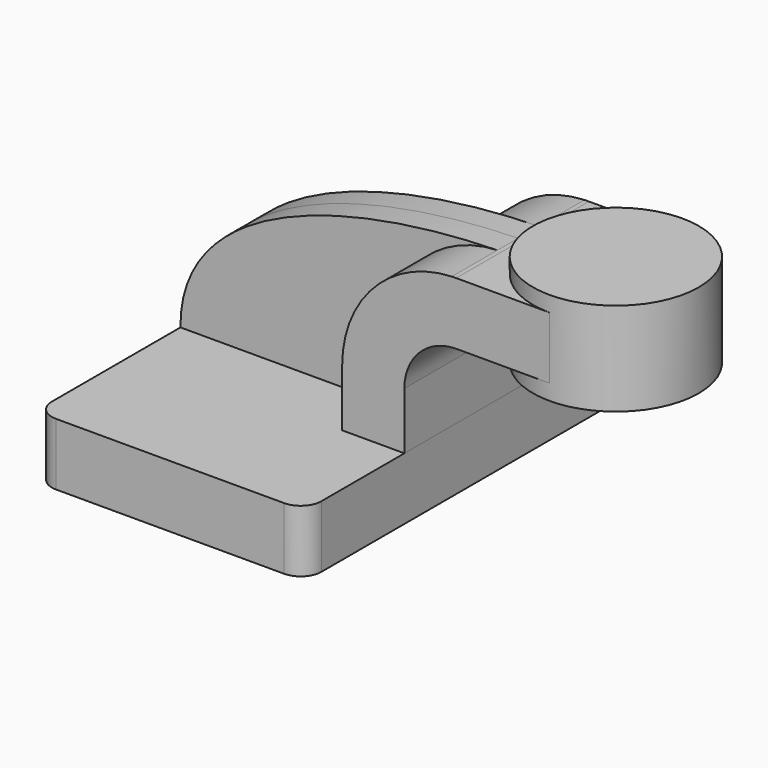
from build123d import *

# Parameters (mm, degrees)
F1_DEPTH = 63.5
F0_W     = 25.4
F0_H     = 19.05
F2_DEPTH = 25.4
F3_DEPTH = 7.9375
F5_R     = 6.35


with BuildPart() as f1:
    # F0 (on Front) → F1 (new body, symmetric)
    with BuildSketch(Plane.XZ):
        Polygon((-41.275, 9.525), (-41.275, -9.525), (41.275, -9.525), (41.275, 9.525), (22.225, 9.525), align=None)
    extrude(amount=F1_DEPTH, both=True)

    # F5
    f5_edges = [f1.edges().sort_by_distance(p)[0] for p in [
        (-41.275, -63.5, 0),
        (41.275, -63.5, 0),
        (-41.275, 63.5, 0),
        (41.275, 63.5, 0),
    ]]
    fillet(f5_edges, radius=F5_R)


with BuildPart() as f2:
    # F0 (on Front) → F2 (new body, symmetric)
    with BuildSketch(Plane.XZ):
        with BuildLine():
            Line((22.225, 9.525), (41.275, 9.525))
            Line((41.275, 9.525), (41.275, 27.0002))
            ThreePointArc((41.275, 27.0002), (45.9246798487, 38.2255201513), (57.15, 42.8752))
            Line((57.15, 42.8752), (60.325, 42.8752))
            Line((60.325, 42.8752), (60.325, 61.9252))
            Line((60.325, 61.9252), (57.15, 61.9252))
            add(Edge.make_bspline(
                [(55.7946757302, 61.8988922552), (56.2465520458, 61.9089061366), (56.6983406792, 61.9176735536), (57.15, 61.9252)],
                knots=[110.4684727353, 110.4684727353, 110.4684727353, 110.4684727353, 111.5045361635, 111.5045361635, 111.5045361635, 111.5045361635], degree=3))
            ThreePointArc((55.7946757302, 61.8988922552), (31.9796769476, 51.2119835452), (22.225, 27.0002))
            Line((22.225, 27.0002), (22.225, 9.525))
        make_face()
        with Locations((73.025, 52.4002)):
            Rectangle(F0_W, F0_H)
    extrude(amount=F2_DEPTH, both=True)

    # F0 (on Front) → F4 (revolve)
    with BuildSketch(Plane.XZ):
        Polygon((85.725, 66.675), (85.725, 61.9252), (85.725, 42.8752), (85.725, 38.1), (111.125, 38.1), (111.125, 66.675), align=None)
    revolve(axis=Axis((85.725, 0, 52.3875), (0, 0, -1)))


with BuildPart() as f3:
    # F0 (on Front) → F3 (new body, symmetric)
    with BuildSketch(Plane.XZ):
        with BuildLine():
            add(Edge.make_bspline(
                [(-41.275, 9.525), (-41.5632032513, 45.593008189), (7.6141444166, 60.831179454), (55.7946757302, 61.8988922552)],
                knots=[0, 0, 0, 0, 110.4684727353, 110.4684727353, 110.4684727353, 110.4684727353], degree=3))
            Line((-41.275, 9.525), (22.225, 9.525))
            Line((22.225, 9.525), (22.225, 27.0002))
            ThreePointArc((22.225, 27.0002), (31.9796769476, 51.2119835452), (55.7946757302, 61.8988922552))
        make_face()
    extrude(amount=F3_DEPTH, both=True)


solid = Compound([f1.part, f2.part, f3.part])
